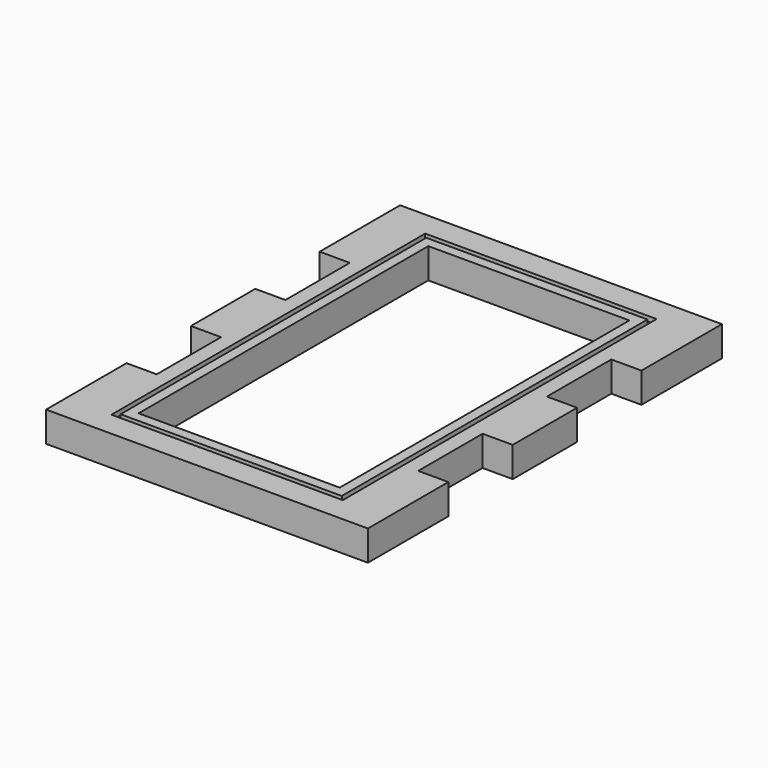
from build123d import *

# Parameters (mm, degrees)
F0_W     = 127
F0_H     = 228.6
F1_DEPTH = 19.05
F2_W     = 146.05
F2_H     = 247.65
F2_W_2   = 139.7
F2_H_2   = 241.3
F3_DEPTH = 3.175


with BuildPart() as f1:
    # F0 (on Top) → F1 (new body)
    with BuildSketch(Plane.XY):
        Polygon((101.6, 139.7), (-101.6, 139.7), (-101.6, 76.2), (-82.55, 76.2), (-82.55, 25.4), (-101.6, 25.4), (-101.6, -25.4), (-82.55, -25.4), (-82.55, -76.2), (-101.6, -76.2), (-101.6, -139.7), (101.6, -139.7), (101.6, -76.2), (82.55, -76.2), (82.55, -25.4), (101.6, -25.4), (101.6, 25.4), (82.55, 25.4), (82.55, 76.2), (101.6, 76.2), align=None)
        Rectangle(F0_W, F0_H, mode=Mode.SUBTRACT)
    extrude(amount=F1_DEPTH)

    # F2 (on face) → F3 (cut)
    with BuildSketch(Plane.XY.offset(19.05)):
        Rectangle(F2_W, F2_H)
        Rectangle(F2_W_2, F2_H_2, mode=Mode.SUBTRACT)
    extrude(amount=-F3_DEPTH, mode=Mode.SUBTRACT)


solid = f1.part
